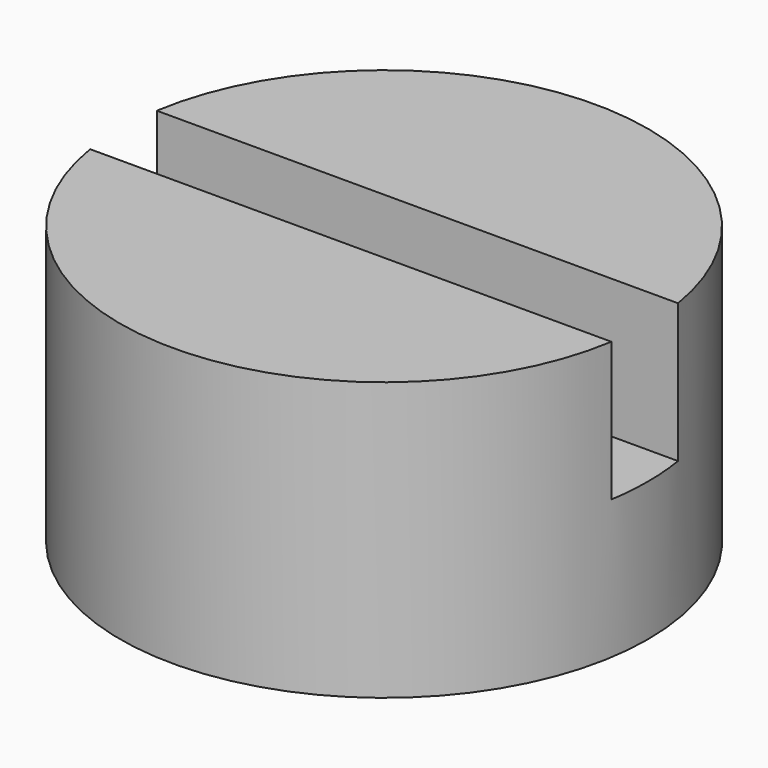
from build123d import *

# Parameters (mm, degrees)
BOX004_W          = 4
BOX004_H          = 0.6
BOX004_DEPTH      = 1
CYLINDER002_R     = 1.9
CYLINDER002_DEPTH = 2


with BuildPart() as cube002:
    # Box004 → Box004 (new body)
    with BuildSketch(Plane(origin=(-2, -0.3, 1), x_dir=(1, 0, 0), z_dir=(0, 0, 1))):
        with Locations((2, 0.3)):
            Rectangle(BOX004_W, BOX004_H)
    extrude(amount=BOX004_DEPTH)


with BuildPart() as cut004:
    # Cylinder002 → Cylinder002 (new body)
    with BuildSketch(Plane.XY):
        Circle(CYLINDER002_R)
    extrude(amount=CYLINDER002_DEPTH)

    # Cut004: cut Cube002
    add(cube002.part, mode=Mode.SUBTRACT)


with BuildPart() as cut004_1:
    # Cut004 placement: moved
    add(cut004.part.moved(Location((-3.75, 4.5, 10.5))))


solid = cut004_1.part
